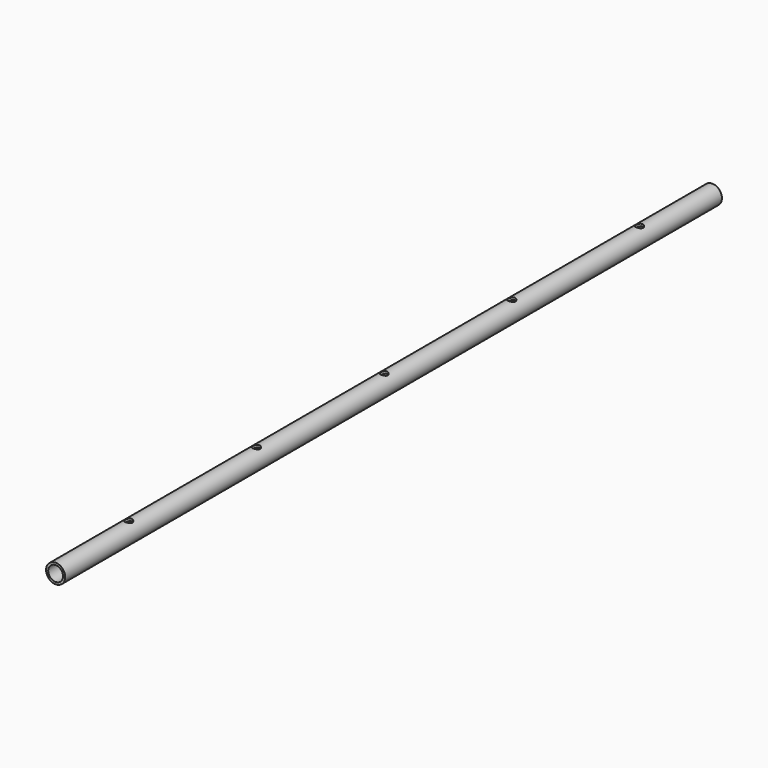
from build123d import *

# Parameters (mm, degrees)
F0_R     = 10.668
F0_R_2   = 8.255
F1_DEPTH = 914.4
F2_R     = 4.1275
F3_DEPTH = 25.4


with BuildPart() as f1:
    # F0 (on Front) → F1 (new body)
    with BuildSketch(Plane.XZ):
        Circle(F0_R)
        Circle(F0_R_2, mode=Mode.SUBTRACT)
    extrude(amount=F1_DEPTH)

    # F2 (on Top) → F3 (cut)
    with BuildSketch(Plane.XY):
        with Locations((0, -101.6)):
            Circle(F2_R)
        with Locations((0, -279.4)):
            Circle(F2_R)
        with Locations((0, -457.2)):
            Circle(F2_R)
        with Locations((0, -635)):
            Circle(F2_R)
        with Locations((0, -812.8)):
            Circle(F2_R)
    extrude(amount=F3_DEPTH, mode=Mode.SUBTRACT)


solid = f1.part
